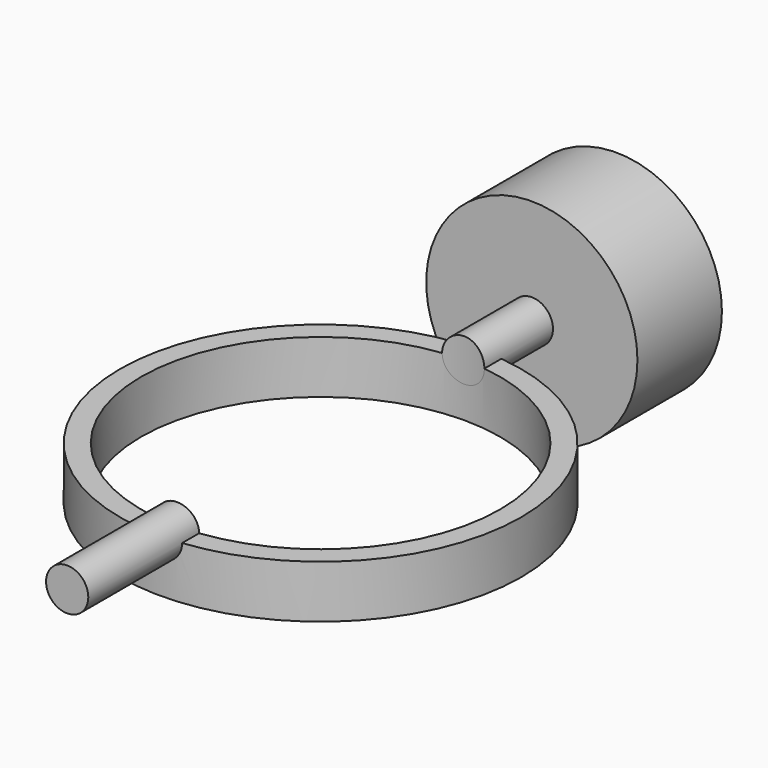
from build123d import *

# Parameters (mm, degrees)
EXTRUDE_DEPTH           = 10
EXTRUDE_PLACEMENT_ANGLE = 270
CYLINDER004_R           = 34
CYLINDER004_DEPTH       = 30
CYLINDER003_R           = 4
CYLINDER003_DEPTH       = 120
CYLINDER005_R           = 20
CYLINDER005_DEPTH       = 20
CYLINDER_R              = 46
CYLINDER_DEPTH          = 60


with BuildPart() as extrude_body:
    # path2399 → Extrude (new body)
    with BuildSketch(Plane(origin=(8.682374, 337.01873, 81), x_dir=(0, 1, 0), z_dir=(0, 0, 1))):
        with BuildLine():
            add(Edge.make_bspline(
                [(-1.415579, 5.024931), (-1.938341, -2.484397)],
                knots=[0, 0, 7.527502, 7.527502], degree=1))
            add(Edge.make_bspline(
                [(-1.938341, -2.484397), (-1.938341, -2.484397), (-2.134903, -2.858259), (-2.273136, -3.334737)],
                knots=[0, 0, 0, 0, 1, 1, 1, 1], degree=3))
            add(Edge.make_bspline(
                [(-2.273136, -3.334737), (-2.411369, -3.811216), (-2.443203, -4.128926), (-2.371685, -4.540758)],
                knots=[0, 0, 0, 0, 1, 1, 1, 1], degree=3))
            add(Edge.make_bspline(
                [(-2.371685, -4.540758), (-2.300167, -4.952591), (-2.218933, -5.672599), (-1.772797, -6.040394)],
                knots=[0, 0, 0, 0, 1, 1, 1, 1], degree=3))
            add(Edge.make_bspline(
                [(-1.772797, -6.040394), (-1.326661, -6.40819), (-0.861351, -6.572675), (-0.583202, -6.662312)],
                knots=[0, 0, 0, 0, 1, 1, 1, 1], degree=3))
            add(Edge.make_bspline(
                [(-0.583202, -6.662312), (-0.305053, -6.751952), (0.507781, -6.731952), (0.709843, -6.630052)],
                knots=[0, 0, 0, 0, 1, 1, 1, 1], degree=3))
            add(Edge.make_bspline(
                [(0.709843, -6.630052), (0.911905, -6.52815), (1.481843, -6.245909), (1.726833, -5.892641)],
                knots=[0, 0, 0, 0, 1, 1, 1, 1], degree=3))
            add(Edge.make_bspline(
                [(1.726833, -5.892641), (1.971823, -5.539373), (2.340182, -5.059724), (2.384256, -4.759981)],
                knots=[0, 0, 0, 0, 1, 1, 1, 1], degree=3))
            add(Edge.make_bspline(
                [(2.384256, -4.759981), (2.42833, -4.460237), (2.223091, -3.691858), (2.158411, -3.465999)],
                knots=[0, 0, 0, 0, 1, 1, 1, 1], degree=3))
            add(Edge.make_bspline(
                [(2.158411, -3.465999), (2.093732, -3.240141), (1.863634, -2.929328), (1.863634, -2.929328)],
                knots=[0, 0, 0, 0, 1, 1, 1, 1], degree=3))
            add(Edge.make_bspline(
                [(1.863634, -2.929328), (1.423808, 5.709855)],
                knots=[0, 0, 8.650371, 8.650371], degree=1))
            add(Edge.make_bspline(
                [(1.423808, 5.709855), (1.423808, 5.709855), (1.246198, 6.226563), (0.794563, 6.495307)],
                knots=[0, 0, 0, 0, 1, 1, 1, 1], degree=3))
            add(Edge.make_bspline(
                [(0.794563, 6.495307), (0.342929, 6.764051), (-0.057622, 6.753041), (-0.37358, 6.666974)],
                knots=[0, 0, 0, 0, 1, 1, 1, 1], degree=3))
            add(Edge.make_bspline(
                [(-0.37358, 6.666974), (-0.689538, 6.580907), (-1.208145, 6.230265), (-1.306201, 5.897514)],
                knots=[0, 0, 0, 0, 1, 1, 1, 1], degree=3))
            add(Edge.make_bspline(
                [(-1.306201, 5.897514), (-1.404257, 5.564763), (-1.415579, 5.024931), (-1.415579, 5.024931)],
                knots=[0, 0, 0, 0, 1, 1, 1, 1], degree=3))
        make_face()
    extrude(amount=EXTRUDE_DEPTH)


with BuildPart() as extrude_body_1:
    # Extrude placement: moved
    add(extrude_body.part.moved(Location((-13, -13, 406))).rotate(Axis((-13, -13, 406), (1, 0, 0)), EXTRUDE_PLACEMENT_ANGLE))


with BuildPart() as cylinder004:
    # Cylinder004 → Cylinder004 (new body)
    with BuildSketch(Plane.XY.offset(56)):
        Circle(CYLINDER004_R)
    extrude(amount=CYLINDER004_DEPTH)


with BuildPart() as cut:
    # Cylinder003 → Cylinder003 (new body)
    with BuildSketch(Plane(origin=(0, 60, 70), x_dir=(1, 0, 0), z_dir=(0, -1, 0))):
        Circle(CYLINDER003_R)
    extrude(amount=CYLINDER003_DEPTH)

    # Cut: cut Cylinder004
    add(cylinder004.part, mode=Mode.SUBTRACT)


with BuildPart() as cut001:
    # Cylinder005 → Cylinder005 (new body)
    with BuildSketch(Plane(origin=(0, 70, 70), x_dir=(1, 0, 0), z_dir=(0, -1, 0))):
        Circle(CYLINDER005_R)
    extrude(amount=CYLINDER005_DEPTH)

    # Fusion: union Cut
    add(cut.part)

    # Cut001: cut Extrude body
    add(extrude_body_1.part, mode=Mode.SUBTRACT)


with BuildPart() as cylinder:
    # Cylinder → Cylinder (new body)
    with BuildSketch(Plane.XY):
        Circle(CYLINDER_R)
    extrude(amount=CYLINDER_DEPTH)


with BuildPart() as fusion001:
    # Sketch → Revolve (revolve)
    with BuildSketch(Plane.XZ):
        Polygon((0, 1), (34, 1), (34, 70), (38, 70), (38, 0), (0, 0), align=None)
    revolve(axis=Axis((0, 0, 0), (0, 0, 1)))

    # Cut002: cut Cylinder
    add(cylinder.part, mode=Mode.SUBTRACT)

    # Fusion001: union Cut001
    add(cut001.part)


solid = fusion001.part
